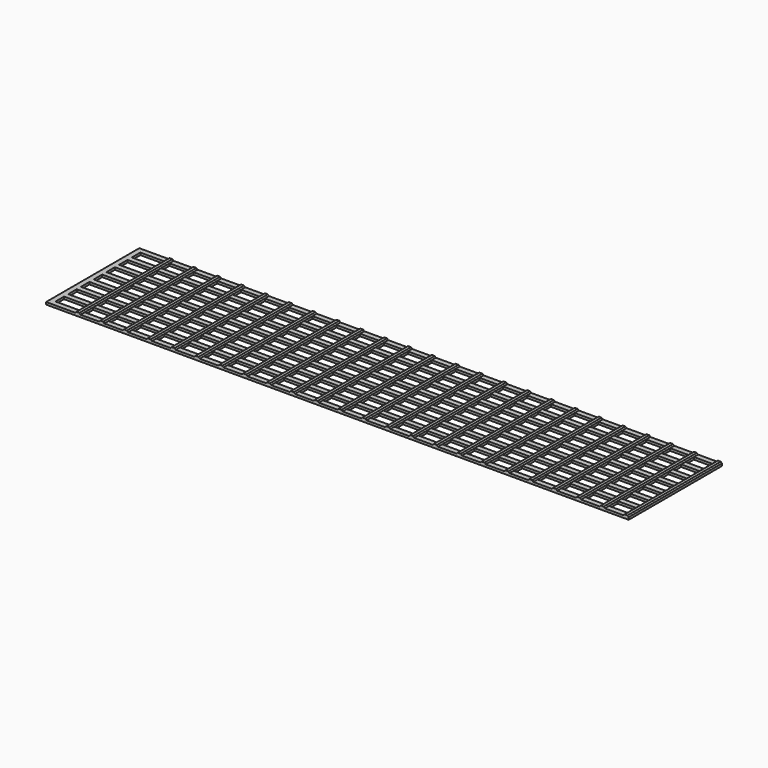
from build123d import *

# Parameters (mm, degrees)
SKETCH_W               = 200
SKETCH_H               = 0.8
PAD_DEPTH              = 1.8
SKETCH001_W            = 1.8
SKETCH001_H            = 40
PAD001_DEPTH           = 0.8
LINEARPATTERN_COUNT    = 8
LINEARPATTERN_PITCH    = 5.457143
PAD002_DEPTH           = 40
LINEARPATTERN001_COUNT = 24
LINEARPATTERN001_PITCH = 8.182609


with BuildPart() as part:
    # Sketch → Pad (new body)
    with BuildSketch(Plane.XZ):
        with Locations((100, 0.4)):
            Rectangle(SKETCH_W, SKETCH_H)
    pad = extrude(amount=-PAD_DEPTH)

    # Sketch001 → Pad001 (join)
    with BuildSketch(Plane.XY):
        with Locations((0.9, 20)):
            Rectangle(SKETCH001_W, SKETCH001_H)
    extrude(amount=PAD001_DEPTH)

    # LinearPattern: Pad ×8
    with Locations(*[(0, i * LINEARPATTERN_PITCH, 0) for i in range(1, LINEARPATTERN_COUNT)]):
        add(pad)

    # Sketch002 → Pad002 (join)
    with BuildSketch(Plane.XZ):
        Polygon((10, 0), (11.8, 0), (11.8, 0.8), (11.4, 1.2), (10.4, 1.2), (10, 0.8), align=None)
    pad002 = extrude(amount=-PAD002_DEPTH)

    # LinearPattern001: Pad002 ×24
    with Locations(*[(i * LINEARPATTERN001_PITCH, 0, 0) for i in range(1, LINEARPATTERN001_COUNT)]):
        add(pad002)


solid = part.part
